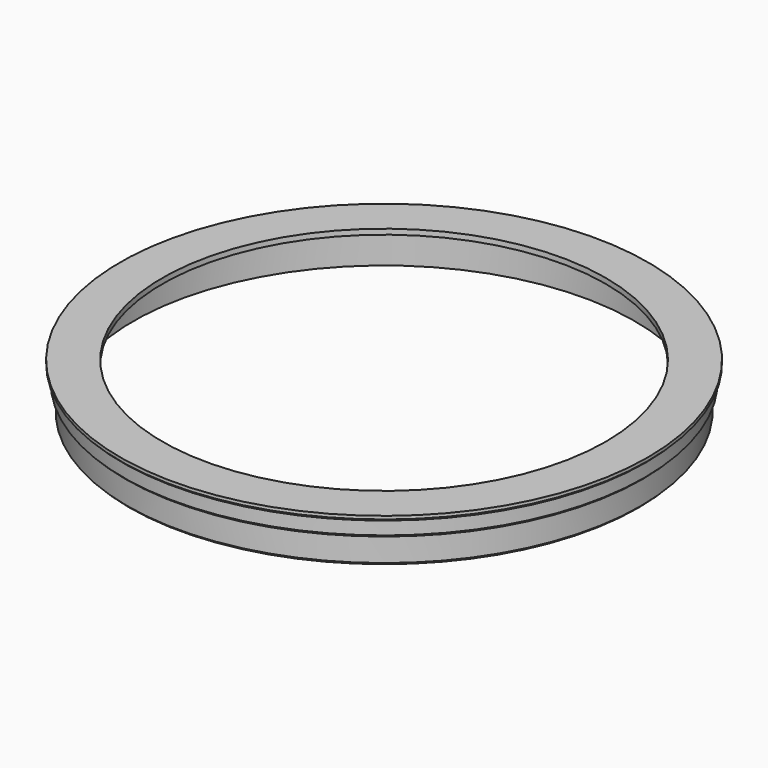
from build123d import *

# Parameters (mm, degrees)
F0_R     = 317.5
F0_R_2   = 266.7
F1_DEPTH = 6.35
F2_R     = 308.61
F2_R_2   = 301.625
F3_DEPTH = 50.8
F2_R_3   = 313.382665
F4_DEPTH = 19.05
F5_SIZE  = 2.54


with BuildPart() as f1:
    # F0 (on Top) → F1 (new body)
    with BuildSketch(Plane.XY):
        Circle(F0_R)
        Circle(F0_R_2, mode=Mode.SUBTRACT)
    extrude(amount=F1_DEPTH)

    # F2 (on face) → F3 (join)
    with BuildSketch(Plane(origin=(0, 0, 0), x_dir=(1, 0, 0), z_dir=(0, 0, -1))):
        Circle(F2_R)
        Circle(F2_R_2, mode=Mode.SUBTRACT)
    extrude(amount=F3_DEPTH)

    # F2 (on face) → F4 (join)
    with BuildSketch(Plane(origin=(0, 0, 0), x_dir=(1, 0, 0), z_dir=(0, 0, -1))):
        Circle(F2_R_3)
        Circle(F2_R, mode=Mode.SUBTRACT)
    extrude(amount=F4_DEPTH)

    # F5
    f5_edges = [f1.edges().sort_by_distance(p)[0] for p in [
        (-313.382665, 0, -19.05),
        (-317.5, 0, 0),
        (-308.61, 0, -50.8),
    ]]
    chamfer(f5_edges, length=F5_SIZE)


solid = f1.part
